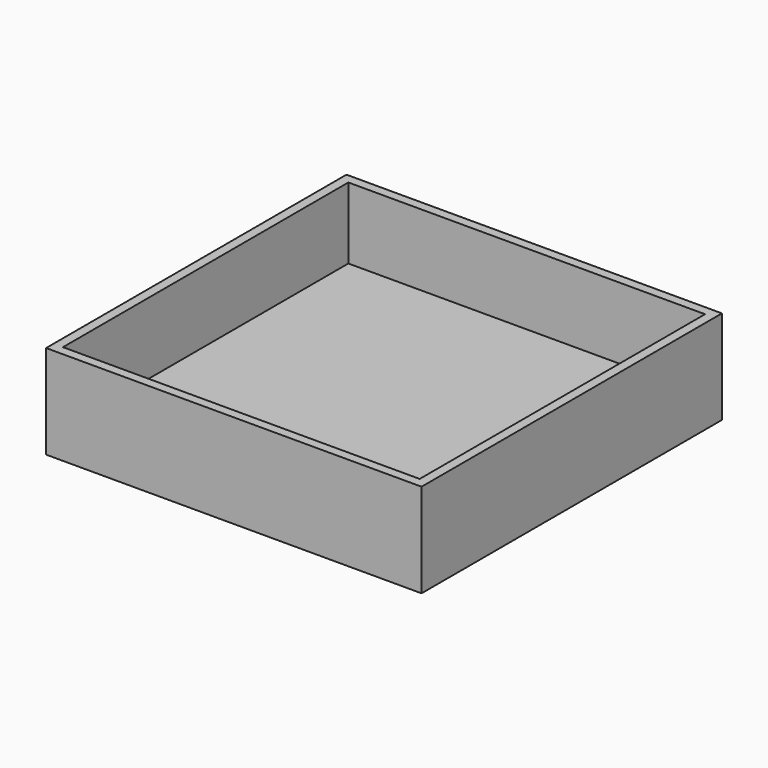
from build123d import *

# Parameters (mm, degrees)
F0_W     = 20
F0_H     = 20
F1_DEPTH = 5
F2_T     = -0.5
F3_W     = 20
F3_H     = 20
F4_DEPTH = 1.2


with BuildPart() as f1:
    # F0 (on Top) → F1 (new body)
    with BuildSketch(Plane.XY):
        Rectangle(F0_W, F0_H)
    extrude(amount=F1_DEPTH)

    # F2
    f2_openings = [f1.faces().sort_by_distance(p)[0] for p in [
        (0, 0, 5),
        (0, 0, 0),
    ]]
    offset(amount=F2_T, openings=f2_openings)

    # F3 (on Top) → F4 (join)
    with BuildSketch(Plane.XY):
        Rectangle(F3_W, F3_H)
    extrude(amount=F4_DEPTH)


solid = f1.part
